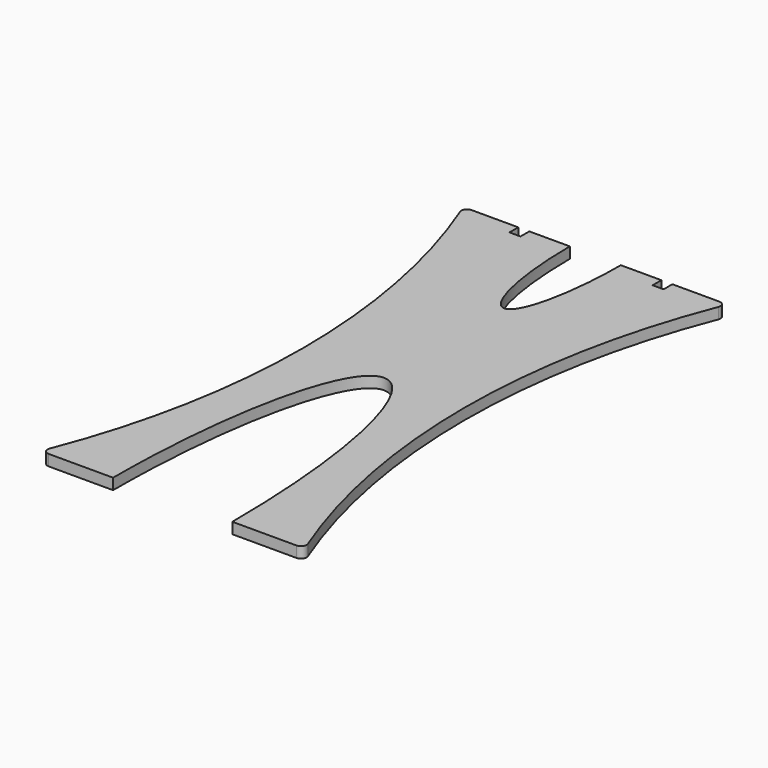
from build123d import *

# Parameters (mm, degrees)
F1_DEPTH = 12.7


with BuildPart() as f1:
    # F0 (on Top) → F1 (new body)
    with BuildSketch(Plane.XY):
        with BuildLine():
            add(Edge.make_bspline(
                [(68.8061999409, 0), (68.8061999409, 304.8), (0, 304.8)],
                knots=[4.7123889804, 4.7123889804, 4.7123889804, 6.2831853072, 6.2831853072, 6.2831853072], degree=2, weights=[1, 0.7071067812, 1]))
            Line((68.8061999409, 0), (143.0395694707, 0))
            ThreePointArc((143.0395694707, 0), (148.2842640953, 2.7701007983), (148.9531058802, 8.6635658915))
            ThreePointArc((148.9531058802, 8.6635658915), (93.0857662889, 304.8), (148.9531058802, 600.9364341085))
            ThreePointArc((148.9531058802, 600.9364341085), (148.2842640953, 606.8298992017), (143.0395694707, 609.6))
            Line((143.0395694707, 609.6), (88.9, 609.6))
            Line((88.9, 609.6), (88.9, 596.9))
            Line((88.9, 596.9), (76.2, 596.9))
            Line((76.2, 596.9), (76.2, 609.6))
            Line((76.2, 609.6), (29.4321160355, 609.6))
            add(Edge.make_bspline(
                [(0, 478.1525495466), (29.2977038939, 478.7228997007), (29.4321160355, 609.6)],
                knots=[3.1461804743, 3.1461804743, 3.1461804743, 4.7123889804, 4.7123889804, 4.7123889804], degree=2, weights=[1, 0.7087269589, 1]))
            add(Edge.make_bspline(
                [(-29.4321160355, 609.6), (-29.2977038939, 478.7228997007), (0, 478.1525495466)],
                knots=[4.7123889804, 4.7123889804, 4.7123889804, 6.2785974865, 6.2785974865, 6.2785974865], degree=2, weights=[1, 0.7087269589, 1]))
            Line((-29.4321160355, 609.6), (-76.2, 609.6))
            Line((-76.2, 609.6), (-76.2, 596.9))
            Line((-76.2, 596.9), (-88.9, 596.9))
            Line((-88.9, 596.9), (-88.9, 609.6))
            Line((-88.9, 609.6), (-143.0395694707, 609.6))
            ThreePointArc((-143.0395694707, 609.6), (-148.2842640953, 606.8298992017), (-148.9531058802, 600.9364341085))
            ThreePointArc((-148.9531058802, 600.9364341085), (-93.0857662889, 304.8), (-148.9531058802, 8.6635658915))
            ThreePointArc((-148.9531058802, 8.6635658915), (-148.2842640953, 2.7701007983), (-143.0395694707, 0))
            Line((-143.0395694707, 0), (-68.8061999409, 0))
            add(Edge.make_bspline(
                [(0, 304.8), (-68.8061999409, 304.8), (-68.8061999409, 0)],
                knots=[0, 0, 0, 1.5707963268, 1.5707963268, 1.5707963268], degree=2, weights=[1, 0.7071067812, 1]))
        make_face()
    extrude(amount=F1_DEPTH)


solid = f1.part
